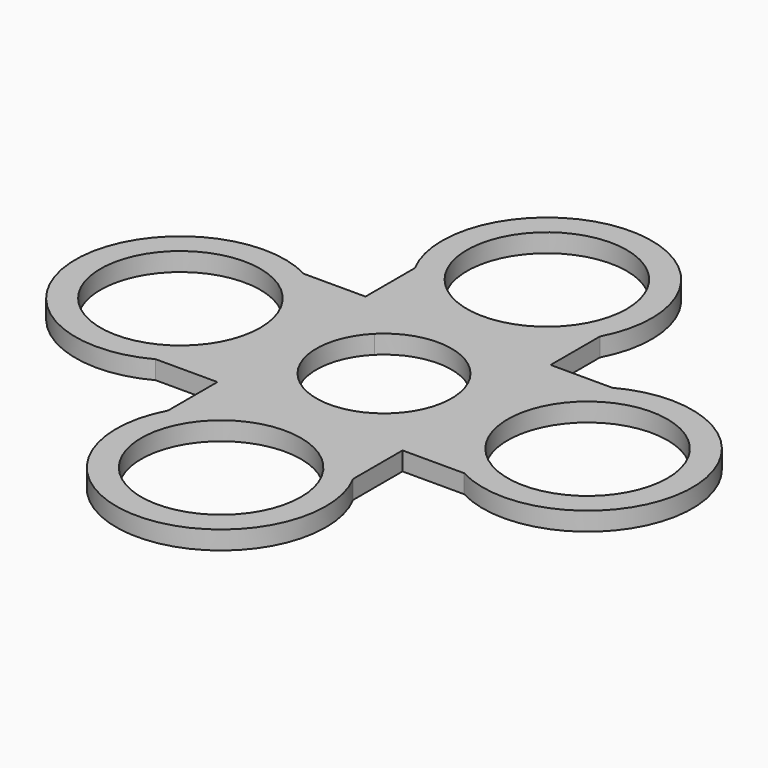
from build123d import *

# Parameters (mm, degrees)
F0_R     = 12.95
F1_DEPTH = 3


with BuildPart() as f1:
    # F0 (on Top) → F1 (new body)
    with BuildSketch(Plane.XY):
        with BuildLine():
            Line((-15, 15), (-25, 15))
            ThreePointArc((-25, 15), (-50, 0), (-25, -15))
            Line((-25, -15), (-15, -15))
            Line((-15, -15), (-15, -25))
            ThreePointArc((-15, -25), (0, -50), (15, -25))
            Line((15, -25), (15, -15))
            Line((15, -15), (25, -15))
            ThreePointArc((25, -15), (50, 0), (25, 15))
            Line((25, 15), (15, 15))
            Line((15, 15), (15, 25))
            ThreePointArc((15, 25), (0, 50), (-15, 25))
            Line((-15, 25), (-15, 15))
        make_face()
        with Locations((0, -33)):
            Circle(F0_R, mode=Mode.SUBTRACT)
        with Locations((-33, 0)):
            Circle(F0_R, mode=Mode.SUBTRACT)
        with BuildLine():
            ThreePointArc((-7.742819, -7.742819), (-10.95, 0), (-7.742819, 7.742819))
            ThreePointArc((-7.742819, 7.742819), (0, 10.95), (7.742819, 7.742819))
            ThreePointArc((7.742819, 7.742819), (10.95, 0), (7.742819, -7.742819))
            ThreePointArc((7.742819, -7.742819), (0, -10.95), (-7.742819, -7.742819))
        make_face(mode=Mode.SUBTRACT)
        with Locations((33, 0)):
            Circle(F0_R, mode=Mode.SUBTRACT)
        with Locations((0, 33)):
            Circle(F0_R, mode=Mode.SUBTRACT)
    extrude(amount=F1_DEPTH)


solid = f1.part
